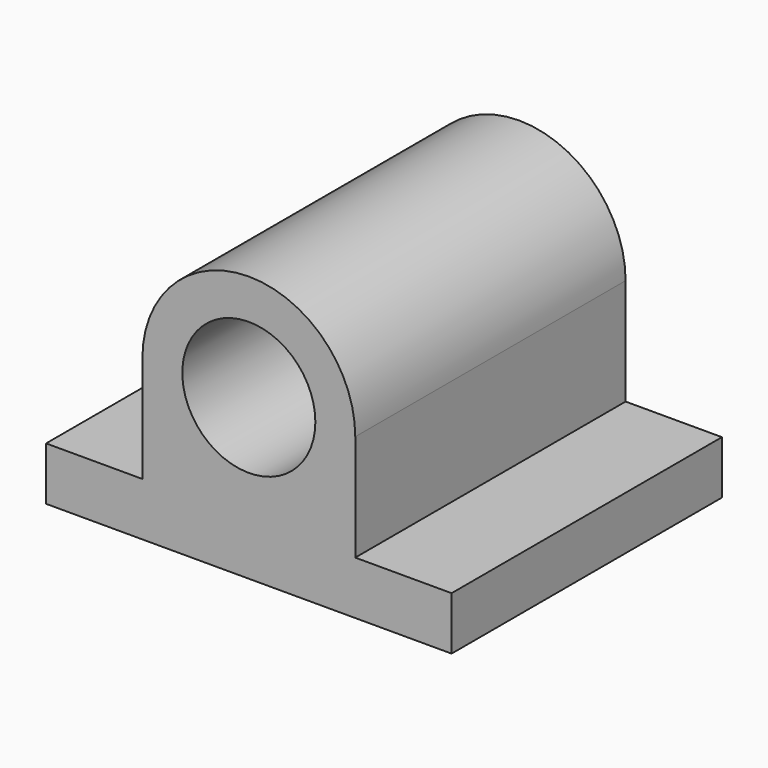
from build123d import *

# Parameters (mm, degrees)
F0_R     = 2.5
F1_DEPTH = 12.7


with BuildPart() as f1:
    # F0 (on Front) → F1 (new body)
    with BuildSketch(Plane.XZ):
        with BuildLine():
            Line((-4, 0), (-7.62, 0))
            Line((-7.62, 0), (-7.62, -2))
            Line((-7.62, -2), (7.62, -2))
            Line((7.62, -2), (7.62, 0))
            Line((7.62, 0), (4, 0))
            Line((4, 0), (4, 4))
            ThreePointArc((4, 4), (0, 8), (-4, 4))
            Line((-4, 4), (-4, 0))
        make_face()
        with Locations((0, 4)):
            Circle(F0_R, mode=Mode.SUBTRACT)
    extrude(amount=F1_DEPTH)


solid = f1.part
